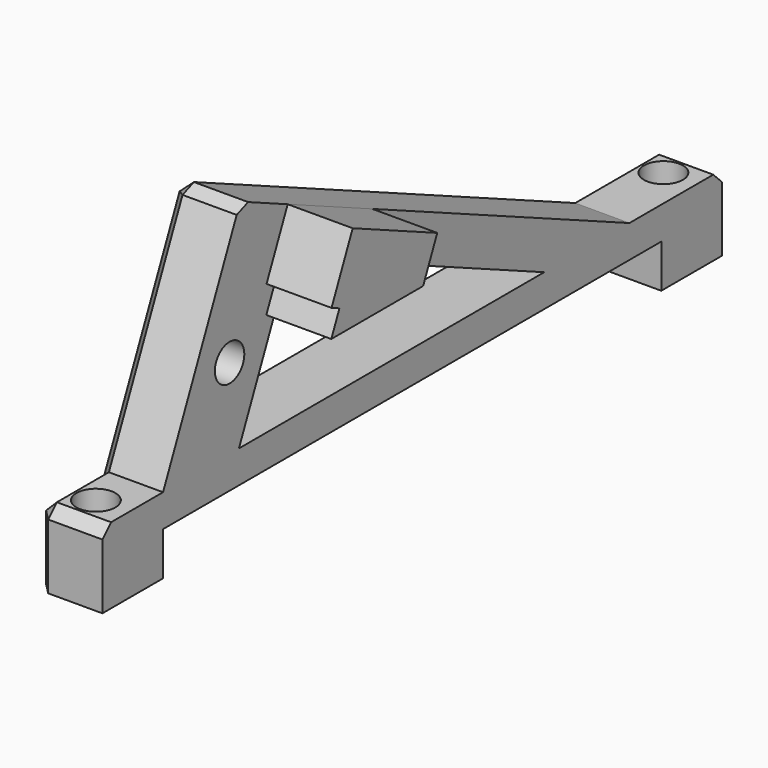
from build123d import *

# Parameters (mm, degrees)
SKETCH006_R     = 1.7
PAD003_DEPTH    = 6
SKETCH007_R     = 1.8
POCKET003_DEPTH = 7
PAD004_DEPTH    = 12
CHAMFER002_SIZE = 1


with BuildPart() as support:
    # Sketch006 → Pad003 (new body)
    with BuildSketch(Plane.YZ):
        Polygon((71.5, 0), (71.5, -7), (60.825309, -7), (15.904574, -27), (7, -7), (0, -7), (0, 0), (7, 0), (7, -4), (64.5, -4), (64.5, 0), align=None)
        with Locations((14.677916, -14.410508)):
            Circle(SKETCH006_R, mode=Mode.SUBTRACT)
        Polygon((15.75709, -7), (50.990936, -7), (21.585991, -20.091925), align=None, mode=Mode.SUBTRACT)
    extrude(amount=PAD003_DEPTH)

    # Sketch007 → Pocket003 (cut)
    with BuildSketch(Plane.XY):
        with Locations((3, 68.5)):
            Circle(SKETCH007_R)
        with Locations((3, 3)):
            Circle(SKETCH007_R)
    extrude(amount=-POCKET003_DEPTH, mode=Mode.SUBTRACT)

    # Sketch008 → Pad004 (join)
    with BuildSketch(Plane.YZ):
        Polygon((21.385846, -24.55958), (18.945427, -19.078307), (19.858972, -18.671571), (18.918653, -16.55958), (29.519767, -16.55958), (31.146714, -20.213762), align=None)
    extrude(amount=PAD004_DEPTH)

    # Chamfer002
    chamfer002_edges = [support.edges().sort_by_distance(p)[0] for p in [
        (0, 66.162655, -7),
        (0, 45.986012, -13.606881),
        (0, 26.26628, -22.386671),
        (0, 18.64521, -25.77979),
        (0, 11.452287, -17),
        (0, 3.5, -7),
        (3, 0, -7),
        (3, 15.904574, -27),
        (3, 71.5, -7),
        (0, 0, -3.5),
        (0, 71.5, -3.5),
    ]]
    chamfer(chamfer002_edges, length=CHAMFER002_SIZE)


with BuildPart() as support_mirror:
    # Part__Mirroring: instance of support
    add(support.part.mirror(Plane(origin=(0, 0, 0), x_dir=(0, 1, 0), z_dir=(0, 0, 1))))


solid = support_mirror.part
